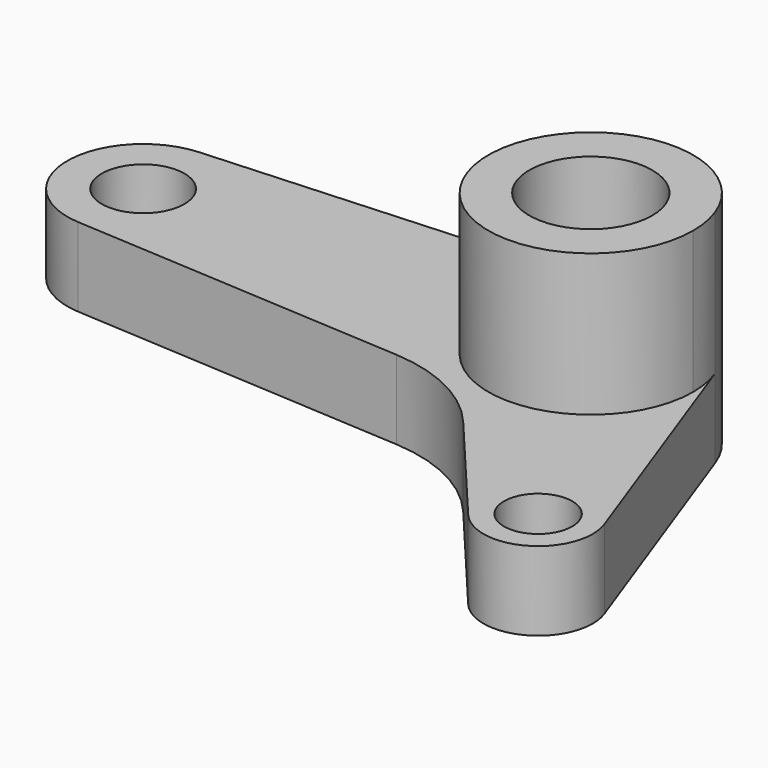
from build123d import *

# Parameters (mm, degrees)
F0_R     = 7.790198
F1_DEPTH = 28
F0_R_2   = 4.327888
F0_R_3   = 5.238237
F2_DEPTH = 10


with BuildPart() as f1:
    # F0 (on Top) → F1 (new body)
    with BuildSketch(Plane.XY):
        with BuildLine():
            ThreePointArc((-0.773386, 12.96061), (-8.903206, -9.450315), (12.983664, 0))
            ThreePointArc((12.983664, 0), (12.787958, 2.245812), (12.206738, 4.423921))
            ThreePointArc((12.206738, 4.423921), (7.134364, 10.847875), (-0.773386, 12.96061))
        make_face()
        Circle(F0_R, mode=Mode.SUBTRACT)
    extrude(amount=F1_DEPTH)

    # F0 (on Top) → F2 (join)
    with BuildSketch(Plane.XY):
        with BuildLine():
            ThreePointArc((12.206738, 4.423921), (12.787958, 2.245812), (12.983664, 0))
            ThreePointArc((12.983664, 0), (-8.903206, -9.450315), (-0.773386, 12.96061))
            Line((-0.773386, 12.96061), (-57.319608, 9.586383))
            ThreePointArc((-57.319608, 9.586383), (-66.351004, 0), (-57.319608, -9.586383))
            Line((-57.319608, -9.586383), (-14.921315, -12.116374))
            ThreePointArc((-14.921315, -12.116374), (-7.136198, -14.208437), (-0.80941, -19.204088))
            Line((-0.80941, -19.204088), (12.0131, -34.442827))
            ThreePointArc((12.0131, -34.442827), (20.773863, -35.981386), (23.821813, -27.625063))
            Line((23.821813, -27.625063), (12.206738, 4.423921))
        make_face()
        with Locations((17.311552, -29.984488)):
            Circle(F0_R_2, mode=Mode.SUBTRACT)
        with Locations((-56.74757, 0)):
            Circle(F0_R_3, mode=Mode.SUBTRACT)
    extrude(amount=F2_DEPTH)


solid = f1.part
